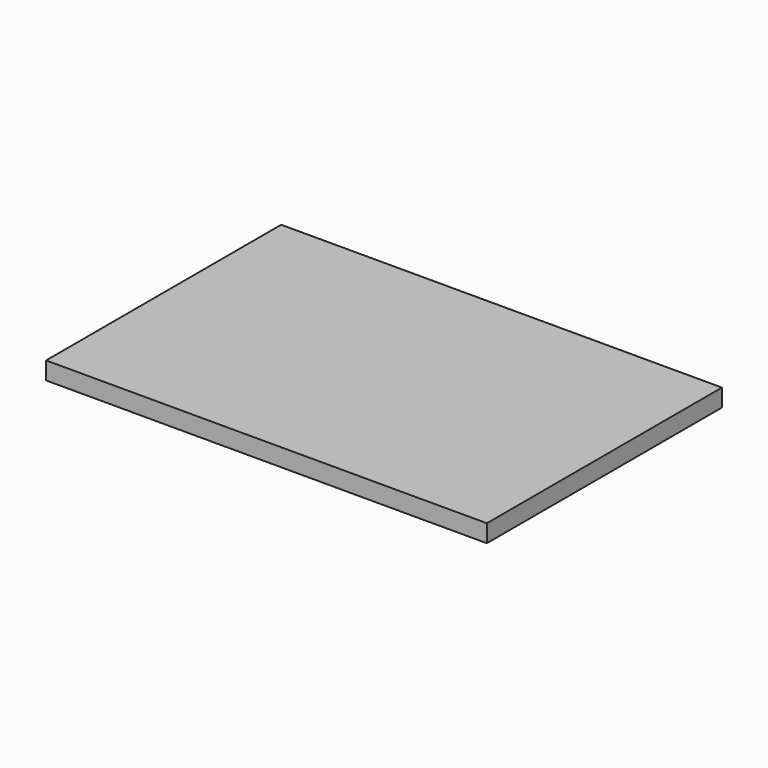
from build123d import *

# Parameters (mm, degrees)
F0_W           = 1500
F0_H           = 1000
F1_DEPTH       = 60
F3_D           = 11
F3_DEPTH       = 14
F3_CBORE_D     = 17.25
F3_CBORE_DEPTH = 10
F3_TIP         = 3.3047334047


with BuildPart() as f1:
    # F0 (on Top) → F1 (new body)
    with BuildSketch(Plane.XY):
        Rectangle(F0_W, F0_H)
    extrude(amount=F1_DEPTH)

    # F3
    with Locations(Plane(origin=(0, 0, 0), x_dir=(1, 0, 0), z_dir=(0, 0, -1))):
        with Locations((-735, 485.5), (-735, 405.5), (-630, 405.5), (-630, 485.5), (52.5, 485.5), (-52.5, 485.5), (-52.5, 405.5), (52.5, 405.5), (735, 405.5), (735, 485.5), (630, 485.5), (630, 405.5), (-735, -485.5), (-735, -405.5), (-630, -405.5), (-630, -485.5), (-52.5, -485.5), (-52.5, -405.5), (52.5, -485.5), (52.5, -405.5), (630, -485.5), (630, -405.5), (735, -405.5), (735, -485.5)):
            CounterBoreHole(F3_D / 2, F3_CBORE_D / 2, F3_CBORE_DEPTH, depth=F3_DEPTH)
            with Locations((0, 0, -(F3_DEPTH + F3_TIP / 2))):  # 118° drill point
                Cone(0, F3_D / 2, F3_TIP, mode=Mode.SUBTRACT)


solid = f1.part
